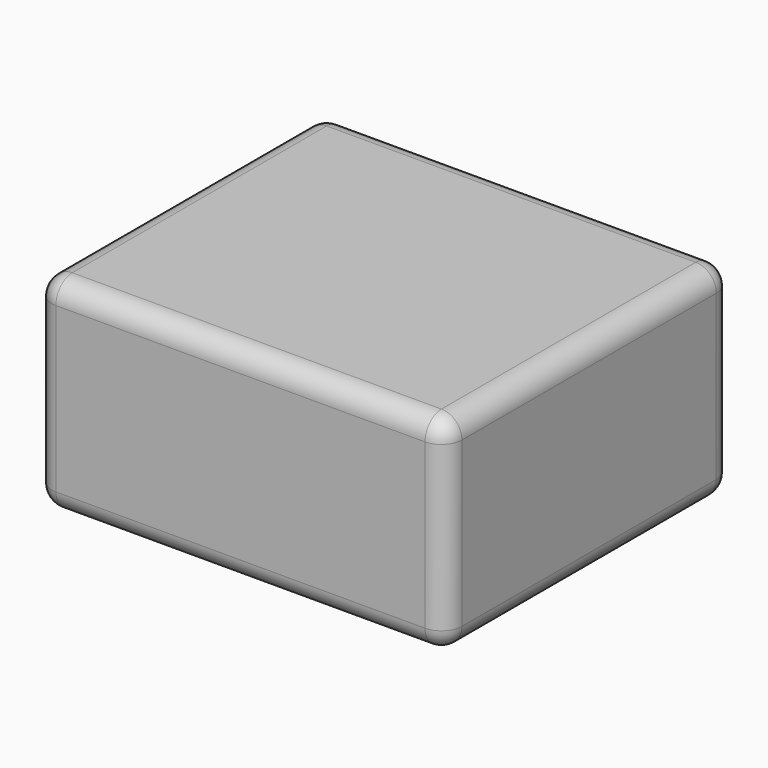
from build123d import *

# Parameters (mm, degrees)
F0_W     = 101.6
F0_H     = 88.9
F1_DEPTH = 50.8
F2_R     = 5.08


with BuildPart() as f1:
    # F0 (on Top) → F1 (new body)
    with BuildSketch(Plane.XY):
        with Locations((-0.636557, 20.537411)):
            Rectangle(F0_W, F0_H)
        with Locations((-0.636557, 20.537411)):
            Rectangle(F0_W, F0_H)
    extrude(amount=F1_DEPTH)

    # F2
    f2_edges = [f1.edges().sort_by_distance(p)[0] for p in [
        (-51.436557, 20.537411, 50.8),
        (-0.636557, -23.912589, 50.8),
        (50.163443, 20.537411, 50.8),
        (-0.636557, 64.987411, 50.8),
        (-51.436557, -23.912589, 25.4),
        (50.163443, -23.912589, 25.4),
        (-0.636557, -23.912589, 0),
        (50.163443, 64.987411, 25.4),
        (50.163443, 20.537411, 0),
        (-51.436557, 64.987411, 25.4),
        (-0.636557, 64.987411, 0),
        (-51.436557, 20.537411, 0),
    ]]
    fillet(f2_edges, radius=F2_R)


solid = f1.part
